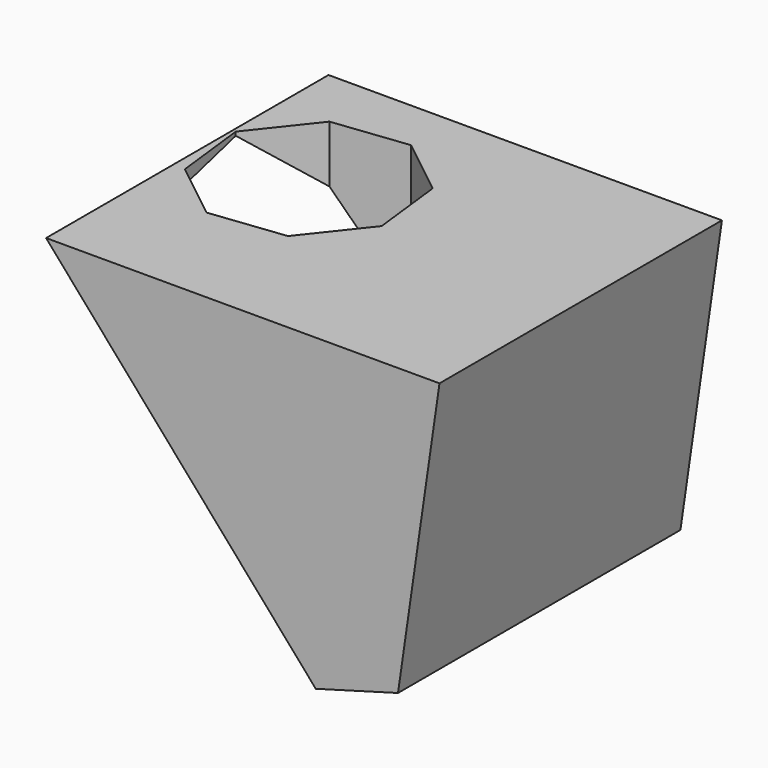
from build123d import *

# Parameters (mm, degrees)
F1_DEPTH = 68.9
F3_DEPTH = 24


with BuildPart() as f1:
    # F0 (on Front) → F1 (new body)
    with BuildSketch(Plane.XZ):
        Polygon((24.151105, 60.331609), (-52.629866, 60.331609), (0, 0), (16.054204, 4.494847), align=None)
    extrude(amount=F1_DEPTH)

    # F2 (on face) → F3 (cut)
    with BuildSketch(Plane.XY.offset(60.331609)):
        Polygon((-24.248699, -45.369383), (-15.156621, -33.874977), (-16.855323, -19.318134), (-28.34973, -10.226056), (-42.906573, -11.924758), (-51.998651, -23.419165), (-50.299949, -37.976008), (-38.805542, -47.068086), align=None)
    extrude(amount=-F3_DEPTH, mode=Mode.SUBTRACT)


solid = f1.part
